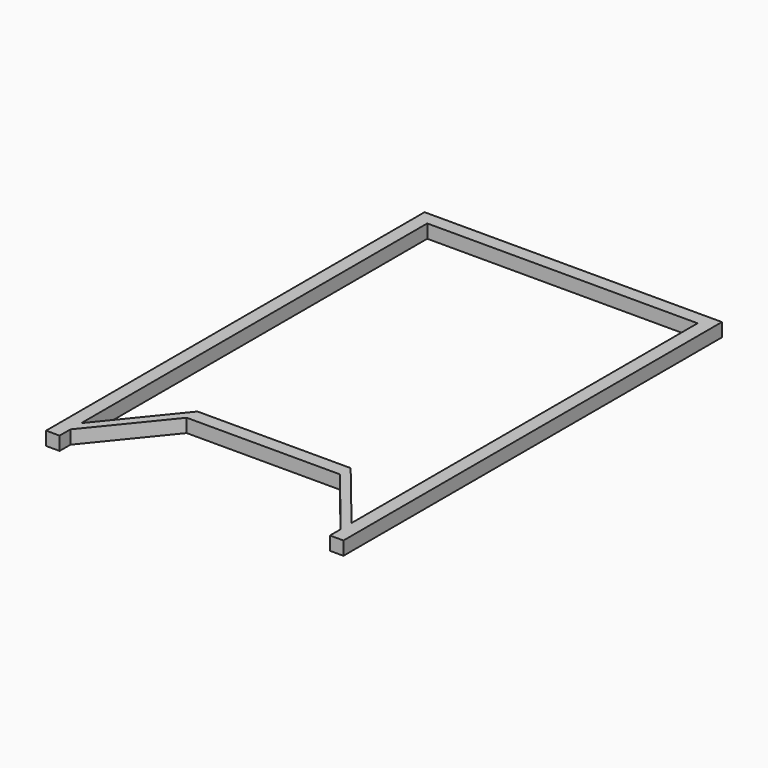
from build123d import *

# Parameters (mm, degrees)
F1_DEPTH = 38.1


with BuildPart() as f1:
    # F0 (on Top) → F1 (new body)
    with BuildSketch(Plane.XY):
        Polygon((-381, -590.55), (-381, -628.65), (-215.9, -425.45), (215.9, -425.45), (381, -628.65), (381, -590.55), (215.9, -387.35), (-215.9, -387.35), align=None)
        Polygon((419.1, 666.75), (-419.1, 666.75), (-419.1, -666.75), (-381, -666.75), (-381, -628.65), (-381, -590.55), (-381, 628.65), (381, 628.65), (381, -590.55), (381, -628.65), (381, -666.75), (419.1, -666.75), align=None)
    extrude(amount=-F1_DEPTH)


solid = f1.part
